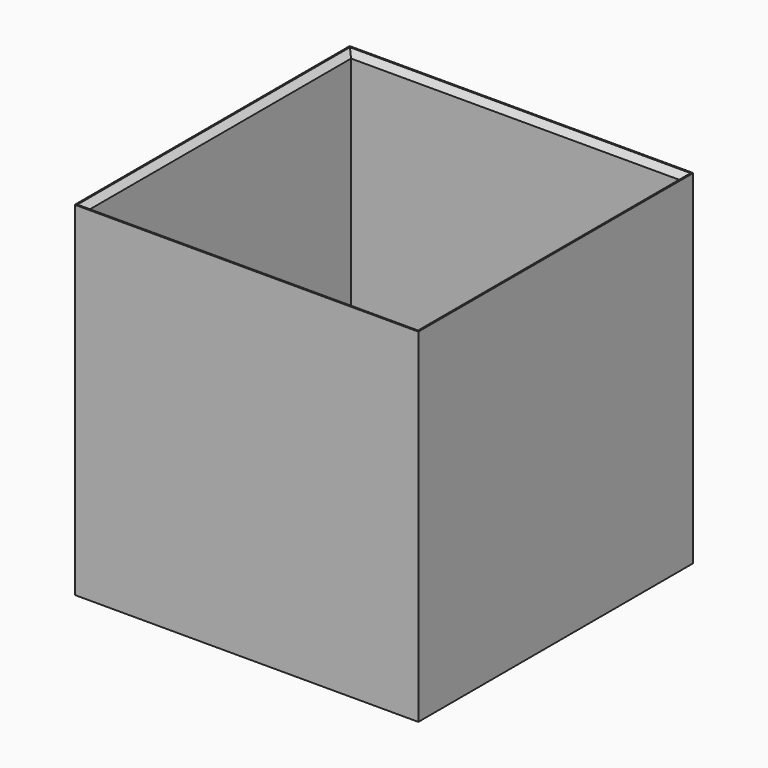
from build123d import *

# Parameters (mm, degrees)
F0_W     = 120
F0_H     = 120
F1_DEPTH = 120
F2_T     = -2.5
F3_SIZE  = 2


with BuildPart() as f1:
    # F0 (on Top) → F1 (new body)
    with BuildSketch(Plane.XY):
        Rectangle(F0_W, F0_H)
    extrude(amount=F1_DEPTH)

    # F2
    f2_openings = [f1.faces().sort_by_distance(p)[0] for p in [
        (0, 0, 120),
    ]]
    offset(amount=F2_T, openings=f2_openings)

    # F3
    f3_edges = [f1.edges().sort_by_distance(p)[0] for p in [
        (0, 57.5, 120),
        (-57.5, 0, 120),
        (0, -57.5, 120),
        (57.5, 0, 120),
    ]]
    chamfer(f3_edges, length=F3_SIZE)


solid = f1.part
